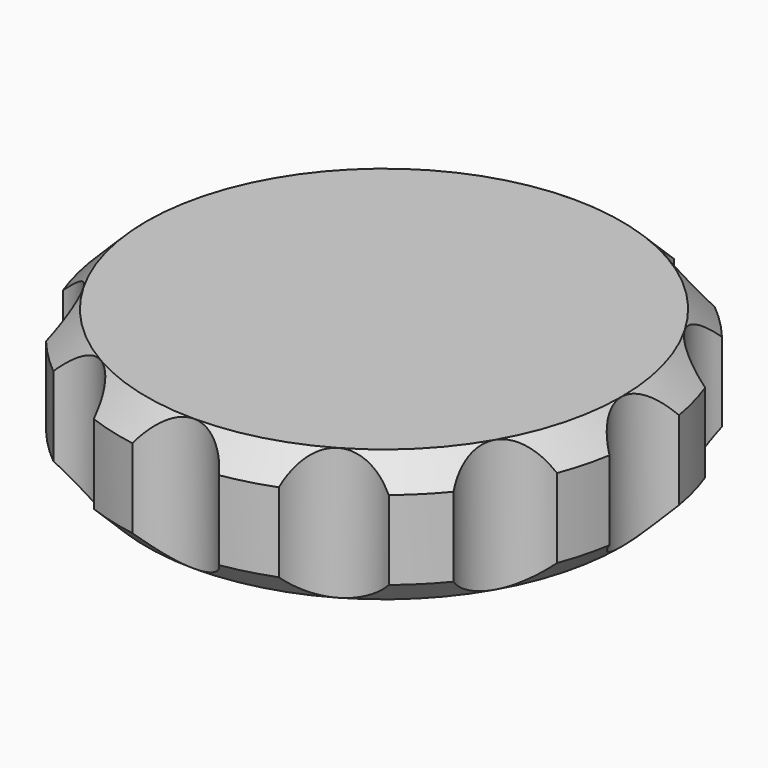
from build123d import *

# Parameters (mm, degrees)
CYLINDER001_R     = 2
CYLINDER001_DEPTH = 10
ARRAY_COUNT       = 12
CYLINDER_R        = 10
CYLINDER_DEPTH    = 5
CHAMFER001_SIZE   = 1


with BuildPart() as array:
    # Cylinder001 → Cylinder001 (new body)
    with BuildSketch(Plane(origin=(11, 0, 0), x_dir=(1, 0, 0), z_dir=(0, 0, 1))):
        Circle(CYLINDER001_R)
    extrude(amount=CYLINDER001_DEPTH)

    # Array: Array ×12 about axis
    array_axis = Axis((0, 0, 0), (0, 0, 1))


with BuildPart() as array_1:
    add(array.part)
    for i in range(1, ARRAY_COUNT):
        add(array.part.rotate(array_axis, i * 360 / ARRAY_COUNT))


with BuildPart() as cut:
    # Cylinder → Cylinder (new body)
    with BuildSketch(Plane.XY):
        Circle(CYLINDER_R)
    extrude(amount=CYLINDER_DEPTH)

    # Chamfer001
    chamfer001_edges = [cut.edges().sort_by_distance(p)[0] for p in [
        (-10, 0, 0),
        (-10, 0, 5),
    ]]
    chamfer(chamfer001_edges, length=CHAMFER001_SIZE)

    # Cut: cut Array
    add(array_1.part, mode=Mode.SUBTRACT)


solid = cut.part
